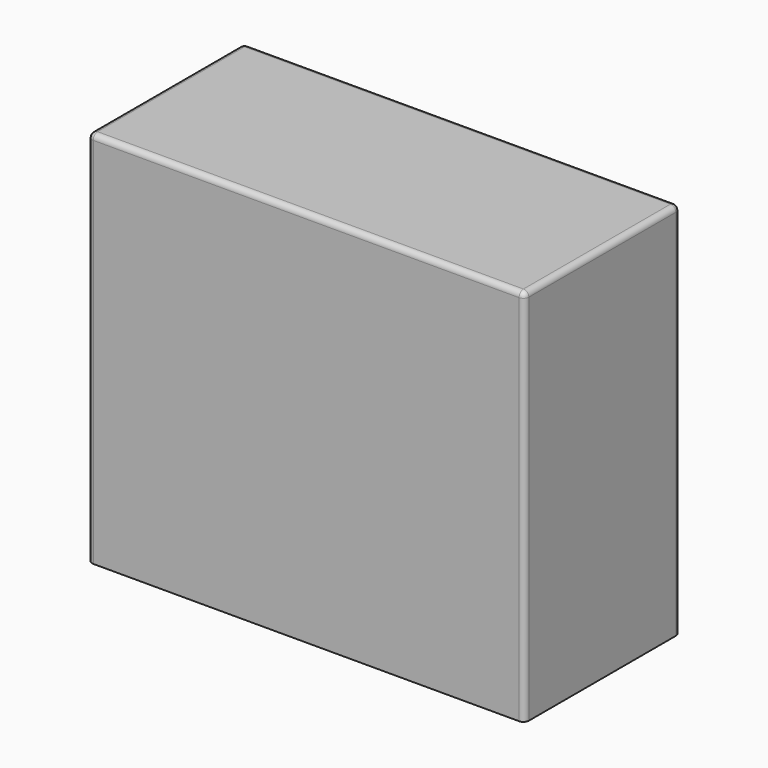
from build123d import *

# Parameters (mm, degrees)
SKETCH002_W    = 80.8
SKETCH002_H    = 36
PAD001_DEPTH   = 70
THICKNESS001_T = -0.8
FILLET_R       = 1
FILLET005_R    = 0.5


with BuildPart() as part:
    # Sketch002 → Pad001 (new body)
    with BuildSketch(Plane.XY):
        Rectangle(SKETCH002_W, SKETCH002_H)
    extrude(amount=PAD001_DEPTH)

    # Thickness001
    thickness001_openings = [part.faces().sort_by_distance(p)[0] for p in [
        (0, 0, 0),
    ]]
    offset(amount=THICKNESS001_T, openings=thickness001_openings, kind=Kind.INTERSECTION)

    # Fillet
    fillet_edges = [part.edges().sort_by_distance(p)[0] for p in [
        (-40.4, 18, 35),
        (-40.4, -18, 35),
        (40.4, 18, 35),
        (0, 18, 70),
        (40.4, -18, 35),
        (40.4, 0, 70),
        (0, -18, 70),
        (-40.4, 0, 70),
    ]]
    fillet(fillet_edges, radius=FILLET_R)

    # Fillet005
    fillet005_edges = [part.edges().sort_by_distance(p)[0] for p in [
        (0, -17.2, 0),
        (-39.6, 0, 0),
        (39.6, 0, 0),
        (0, 17.2, 0),
    ]]
    fillet(fillet005_edges, radius=FILLET005_R)


with BuildPart() as part_1:
    # Body001 placement: moved
    add(part.part.moved(Location((0, 0, 127))))


solid = part_1.part
